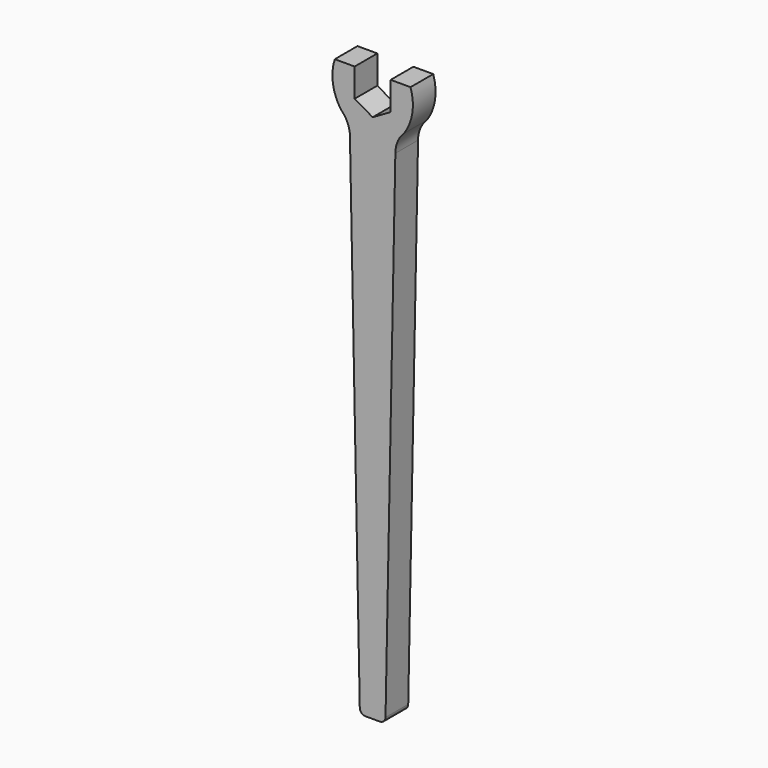
from build123d import *

# Parameters (mm, degrees)
F1_DEPTH = 5


with BuildPart() as f1:
    # F0 (on Front) → F1 (new body)
    with BuildSketch(Plane.XZ):
        with BuildLine():
            Line((3.175, 3.166913), (3.175, -1.833087))
            Line((3.175, -1.833087), (0, -3.666174))
            Line((0, -3.666174), (-3.175, -1.833087))
            Line((-3.175, -1.833087), (-3.175, 3.166913))
            Line((-3.175, 3.166913), (-6.672092, 3.166913))
            ThreePointArc((-6.672092, 3.166913), (-7.001383, -0.706561), (-5.571656, -4.321546))
            ThreePointArc((-5.571656, -4.321546), (-4.409699, -5.978909), (-4, -7.961114))
            Line((-4, -7.961114), (-2.269091, -96.019653))
            ThreePointArc((-2.269091, -96.019653), (-1.969409, -96.714021), (-1.269284, -97))
            Line((-1.269284, -97), (1.269284, -97))
            ThreePointArc((1.269284, -97), (1.969409, -96.714021), (2.269091, -96.019653))
            Line((2.269091, -96.019653), (4, -7.961114))
            ThreePointArc((4, -7.961114), (4.409699, -5.978909), (5.571656, -4.321546))
            ThreePointArc((5.571656, -4.321546), (7.001383, -0.706561), (6.672092, 3.166913))
            Line((6.672092, 3.166913), (3.175, 3.166913))
        make_face()
    extrude(amount=F1_DEPTH)


solid = f1.part
